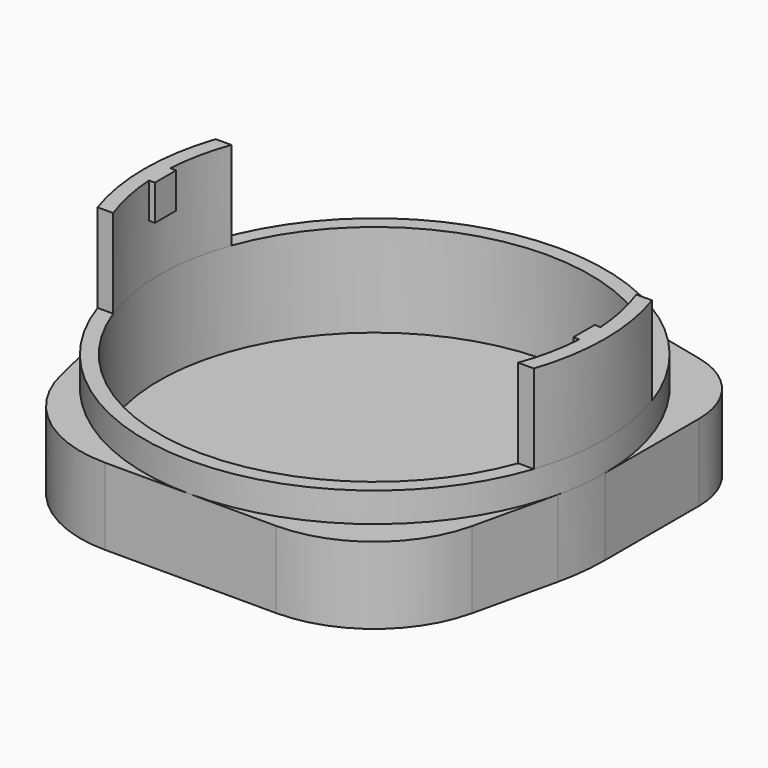
from build123d import *

# Parameters (mm, degrees)
PAD_DEPTH     = 13
SKETCH001_R   = 39
PAD001_DEPTH  = 5
SKETCH002_R   = 36.5
POCKET_DEPTH  = 15.75
PAD002_DEPTH  = 15
SKETCH004_W   = 2.317019
SKETCH004_H   = 4.5
SKETCH004_W_2 = 2.064228
PAD003_DEPTH  = 6


with BuildPart() as part:
    # Sketch → Pad (new body)
    with BuildSketch(Plane.XY):
        with BuildLine():
            Line((8.98454, 37.950995), (28.389288, 33.357104))
            ThreePointArc((39, 19.941115), (36.026709, 28.493542), (28.389288, 33.357104))
            Line((39, 0), (39, 19.941115))
            ThreePointArc((38.00467, -8.754718), (38.750368, -4.405558), (39, 0))
            Line((38.00467, -8.754718), (34.750723, -22.880263))
            ThreePointArc((14.495489, -39), (27.438831, -34.478227), (34.750723, -22.880263))
            Line((4e-06, -39), (14.495489, -39))
            Line((4e-06, -39), (-14.495489, -39))
            ThreePointArc((-34.750723, -22.880263), (-27.438831, -34.478227), (-14.495489, -39))
            Line((-38.00467, -8.754718), (-34.750723, -22.880263))
            ThreePointArc((-39, 0), (-38.750368, -4.405558), (-38.00467, -8.754718))
            Line((-39, 0), (-39, 19.941115))
            ThreePointArc((-28.389288, 33.357104), (-35.611883, 28.165455), (-39, 19.941115))
            Line((-8.98454, 37.950995), (-28.389288, 33.357104))
            ThreePointArc((8.98454, 37.950995), (0, 39), (-8.98454, 37.950995))
        make_face()
    extrude(amount=PAD_DEPTH)

    # Sketch001 (on Face17 of Pad) → Pad001 (join)
    with BuildSketch(Plane.XY.offset(13)):
        Circle(SKETCH001_R)
    extrude(amount=PAD001_DEPTH)

    # Sketch002 (on Face22 of Pad001) → Pocket (cut)
    with BuildSketch(Plane.XY.offset(18)):
        Circle(SKETCH002_R)
    extrude(amount=-POCKET_DEPTH, mode=Mode.SUBTRACT)

    # Sketch003 (on Face22 of Pocket) → Pad002 (join)
    with BuildSketch(Plane.XY.offset(18)):
        with BuildLine():
            ThreePointArc((-36.942523, 12.5), (-38.995202, 0), (-36.942523, -12.5))
            Line((-36.942523, -12.5), (-34.292856, -12.5))
            ThreePointArc((-34.292856, 12.5), (-36.5, 0), (-34.292856, -12.5))
            Line((-36.942523, 12.5), (-34.292856, 12.5))
        make_face()
        with BuildLine():
            ThreePointArc((34.292856, -12.5), (36.505526, 0), (34.292856, 12.5))
            Line((34.292856, 12.5), (36.942523, 12.5))
            ThreePointArc((36.942523, -12.5), (39, 0), (36.942523, 12.5))
            Line((34.292856, -12.5), (36.942523, -12.5))
        make_face()
    extrude(amount=PAD002_DEPTH)

    # Sketch004 (on Face35 of Pad002) → Pad003 (join)
    with BuildSketch(Plane.XY.offset(33)):
        with Locations((-36.589095, 0)):
            Rectangle(SKETCH004_W, SKETCH004_H)
        with Locations((36.468061, 0)):
            Rectangle(SKETCH004_W_2, SKETCH004_H)
    extrude(amount=-PAD003_DEPTH)


solid = part.part
